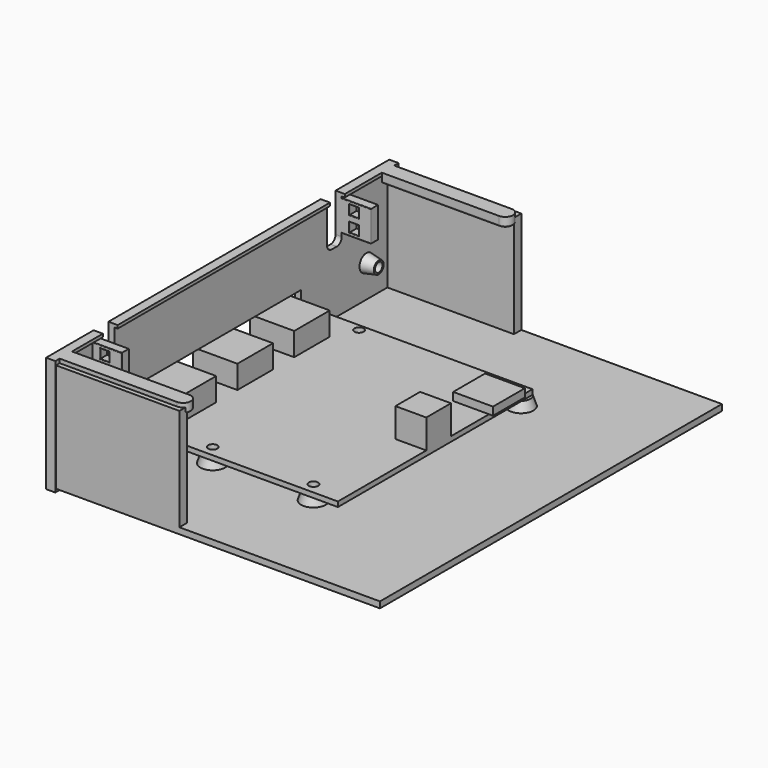
from build123d import *

# Parameters (mm, degrees)
BOX055_W                  = 10
BOX055_H                  = 10
BOX055_DEPTH              = 10
BOX052_W                  = 14.4
BOX052_H                  = 14.4
BOX052_DEPTH              = 7.5
BOX053_W                  = 14.4
BOX053_H                  = 14.4
BOX053_DEPTH              = 7.5
BOX051_W                  = 14.4
BOX051_H                  = 14.4
BOX051_DEPTH              = 7.5
BOX054_W                  = 12.9
BOX054_H                  = 12.9
BOX054_DEPTH              = 2.6
CYLINDER019_R             = 1.5
CYLINDER019_DEPTH         = 10
CYLINDER020_R             = 1.5
CYLINDER020_DEPTH         = 10
CYLINDER018_R             = 1.5
CYLINDER018_DEPTH         = 10
BOX065_W                  = 66.5
BOX065_H                  = 78.8
BOX065_DEPTH              = 1.6
FUSION034_PLACEMENT_ANGLE = 180
BOX061_W                  = 10
BOX061_H                  = 5.45
BOX061_DEPTH              = 5
BOX061_PLACEMENT_ANGLE    = 30
BOX060_W                  = 5.45
BOX060_H                  = 10
BOX060_DEPTH              = 5
BOX060_PLACEMENT_ANGLE    = 120
BOX059_W                  = 5.45
BOX059_H                  = 10
BOX059_DEPTH              = 5
CYLINDER022_R             = 1.55
CYLINDER022_DEPTH         = 10
BOX063_W                  = 10
BOX063_H                  = 5.45
BOX063_DEPTH              = 5
BOX063_PLACEMENT_ANGLE    = 30
BOX064_W                  = 5.45
BOX064_H                  = 10
BOX064_DEPTH              = 5
BOX064_PLACEMENT_ANGLE    = 120
BOX062_W                  = 5.45
BOX062_H                  = 10
BOX062_DEPTH              = 5
CYLINDER023_R             = 1.55
CYLINDER023_DEPTH         = 10
BOX058_W                  = 10
BOX058_H                  = 5.45
BOX058_DEPTH              = 5
BOX058_PLACEMENT_ANGLE    = 30
BOX057_W                  = 5.45
BOX057_H                  = 10
BOX057_DEPTH              = 5
BOX057_PLACEMENT_ANGLE    = 120
BOX056_W                  = 5.45
BOX056_H                  = 10
BOX056_DEPTH              = 5
CYLINDER021_R             = 1.55
CYLINDER021_DEPTH         = 10
FUSION038_PLACEMENT_ANGLE = 180
CYLINDER004_R             = 2.75
CYLINDER004_DEPTH         = 3
FILLET001_R               = 0.5
BOX002_W                  = 100
BOX002_H                  = 5.5
BOX002_DEPTH              = 3
FILLET_R                  = 0.5
CYLINDER005_R             = 2.75
CYLINDER005_DEPTH         = 3
FILLET003_R               = 0.5
BOX003_W                  = 100
BOX003_H                  = 5.5
BOX003_DEPTH              = 3
FILLET002_R               = 0.5
CYLINDER006_R             = 2.75
CYLINDER006_DEPTH         = 3
FILLET005_R               = 0.5
BOX004_W                  = 100
BOX004_H                  = 5.5
BOX004_DEPTH              = 3
FILLET004_R               = 0.5
CYLINDER007_R             = 2.75
CYLINDER007_DEPTH         = 3
FILLET007_R               = 0.5
BOX005_W                  = 100
BOX005_H                  = 5.5
BOX005_DEPTH              = 3
FILLET006_R               = 0.5
FUSION039_PLACEMENT_ANGLE = 180
BOX_W                     = 105
BOX_H                     = 138.5
BOX_DEPTH                 = 2
BOX031_W                  = 10
BOX031_H                  = 65
BOX031_DEPTH              = 10
BOX020_W                  = 10
BOX020_H                  = 6
BOX020_DEPTH              = 15
FILLET014_R               = 2
BOX018_W                  = 10
BOX018_H                  = 6
BOX018_DEPTH              = 15
FILLET012_R               = 2
CYLINDER017_R             = 1.5
CYLINDER017_DEPTH         = 10
CYLINDER016_R             = 1.5
CYLINDER016_DEPTH         = 10
BOX050_W                  = 3
BOX050_H                  = 3
BOX050_DEPTH              = 3
BOX049_W                  = 3
BOX049_H                  = 3
BOX049_DEPTH              = 3
BOX048_W                  = 10
BOX048_H                  = 3
BOX048_DEPTH              = 10
FILLET023_R               = 0.2
BOX047_W                  = 3
BOX047_H                  = 3
BOX047_DEPTH              = 3
BOX046_W                  = 3
BOX046_H                  = 3
BOX046_DEPTH              = 3
BOX045_W                  = 10
BOX045_H                  = 3
BOX045_DEPTH              = 10
FILLET022_R               = 0.2
BOX017_W                  = 4
BOX017_H                  = 132.5
BOX017_DEPTH              = 33.5
BOX001_W                  = 3
BOX001_H                  = 139
BOX001_DEPTH              = 37.5
CYLINDER009_R             = 2.5
CYLINDER009_DEPTH         = 3
FILLET011_R               = 0.5
BOX009_W                  = 38
BOX009_H                  = 5
BOX009_DEPTH              = 3
FILLET010_R               = 0.5
BOX007_W                  = 40
BOX007_H                  = 3
BOX007_DEPTH              = 35.2
BOX006_W                  = 40
BOX006_H                  = 3
BOX006_DEPTH              = 35.2
CYLINDER008_R             = 2.5
CYLINDER008_DEPTH         = 3
FILLET009_R               = 0.5
BOX008_W                  = 38
BOX008_H                  = 5
BOX008_DEPTH              = 3
FILLET008_R               = 0.5


with BuildPart() as cube054:
    # Box055 → Box055 (new body)
    with BuildSketch(Plane(origin=(0, 33, 6), x_dir=(1, 0, 0), z_dir=(0, 0, 1))):
        with Locations((5, 5)):
            Rectangle(BOX055_W, BOX055_H)
    extrude(amount=BOX055_DEPTH)


with BuildPart() as cube051:
    # Box052 → Box052 (new body)
    with BuildSketch(Plane(origin=(58, 32.6, 6.6), x_dir=(1, 0, 0), z_dir=(0, 0, 1))):
        with Locations((7.2, 7.2)):
            Rectangle(BOX052_W, BOX052_H)
    extrude(amount=BOX052_DEPTH)


with BuildPart() as cube052:
    # Box053 → Box053 (new body)
    with BuildSketch(Plane(origin=(58, 55.6, 6.6), x_dir=(1, 0, 0), z_dir=(0, 0, 1))):
        with Locations((7.2, 7.2)):
            Rectangle(BOX053_W, BOX053_H)
    extrude(amount=BOX053_DEPTH)


with BuildPart() as fusion032:
    # Box051 → Box051 (new body)
    with BuildSketch(Plane(origin=(58, 9.6, 6.6), x_dir=(1, 0, 0), z_dir=(0, 0, 1))):
        with Locations((7.2, 7.2)):
            Rectangle(BOX051_W, BOX051_H)
    extrude(amount=BOX051_DEPTH)

    # Fusion032: union Cube051, Cube052
    add(cube051.part)
    add(cube052.part)


with BuildPart() as fusion033:
    # Box054 → Box054 (new body)
    with BuildSketch(Plane(origin=(-1.3, 4.7, 6.6), x_dir=(1, 0, 0), z_dir=(0, 0, 1))):
        with Locations((6.45, 6.45)):
            Rectangle(BOX054_W, BOX054_H)
    extrude(amount=BOX054_DEPTH)

    # Fusion033: union Cube054, Fusion032
    add(cube054.part)
    add(fusion032.part)


with BuildPart() as cylinder019:
    # Cylinder019 → Cylinder019 (new body)
    with BuildSketch(Plane(origin=(43.4, 75.25, 0), x_dir=(1, 0, 0), z_dir=(0, 0, 1))):
        Circle(CYLINDER019_R)
    extrude(amount=CYLINDER019_DEPTH)


with BuildPart() as cylinder020:
    # Cylinder020 → Cylinder020 (new body)
    with BuildSketch(Plane(origin=(54.5, 2.1, 0), x_dir=(1, 0, 0), z_dir=(0, 0, 1))):
        Circle(CYLINDER020_R)
    extrude(amount=CYLINDER020_DEPTH)


with BuildPart() as fusion031:
    # Cylinder018 → Cylinder018 (new body)
    with BuildSketch(Plane(origin=(10.75, 75.25, 0), x_dir=(1, 0, 0), z_dir=(0, 0, 1))):
        Circle(CYLINDER018_R)
    extrude(amount=CYLINDER018_DEPTH)

    # Fusion031: union Cylinder019, Cylinder020
    add(cylinder019.part)
    add(cylinder020.part)


with BuildPart() as obj1:
    # Box065 → Box065 (new body)
    with BuildSketch(Plane.XY):
        with Locations((33.25, 39.4)):
            Rectangle(BOX065_W, BOX065_H)
    extrude(amount=BOX065_DEPTH)

    # Cut014: cut Fusion031
    add(fusion031.part, mode=Mode.SUBTRACT)


with BuildPart() as obj1_1:
    # Cut014 placement: moved
    add(obj1.part.moved(Location((0, 0, 5))))

    # Fusion034: union Fusion033
    add(fusion033.part)


with BuildPart() as obj1_2:
    # Fusion034 placement: moved
    add(obj1_1.part.moved(Location((68, 88, 0))).rotate(Axis((68, 88, 0), (0, 0, 1)), FUSION034_PLACEMENT_ANGLE))


with BuildPart() as cube060:
    # Box061 → Box061 (new body)
    with BuildSketch(Plane.XY):
        with Locations((5, 2.725)):
            Rectangle(BOX061_W, BOX061_H)
    extrude(amount=BOX061_DEPTH)


with BuildPart() as cube060_1:
    # Box061 placement: moved
    add(cube060.part.moved(Location((0.55, 4, 0))).rotate(Axis((0.55, 4, 0), (0, 0, -1)), BOX061_PLACEMENT_ANGLE))


with BuildPart() as cube059:
    # Box060 → Box060 (new body)
    with BuildSketch(Plane.XY):
        with Locations((2.725, 5)):
            Rectangle(BOX060_W, BOX060_H)
    extrude(amount=BOX060_DEPTH)


with BuildPart() as cube059_1:
    # Box060 placement: moved
    add(cube059.part.moved(Location((11.5, 4, 0))).rotate(Axis((11.5, 4, 0), (0, 0, 1)), BOX060_PLACEMENT_ANGLE))


with BuildPart() as m_25_nut005:
    # Box059 → Box059 (new body)
    with BuildSketch(Plane(origin=(3.25, 0, 0), x_dir=(1, 0, 0), z_dir=(0, 0, 1))):
        with Locations((2.725, 5)):
            Rectangle(BOX059_W, BOX059_H)
    extrude(amount=BOX059_DEPTH)

    # Common005: intersect Cube060, Cube059
    add(cube060_1.part, mode=Mode.INTERSECT)
    add(cube059_1.part, mode=Mode.INTERSECT)


with BuildPart() as m_25_nut005_1:
    # Common005 placement: moved
    add(m_25_nut005.part.moved(Location((-2, 0, -1))))


with BuildPart() as screw_hole005:
    # Cylinder022 → Cylinder022 (new body)
    with BuildSketch(Plane(origin=(4, 4, -1), x_dir=(1, 0, 0), z_dir=(0, 0, 1))):
        Circle(CYLINDER022_R)
    extrude(amount=CYLINDER022_DEPTH)

    # Fusion036: union M.25 nut005
    add(m_25_nut005_1.part)


with BuildPart() as screw_hole005_1:
    # Fusion036 placement: moved
    add(screw_hole005.part.moved(Location((-61.25, -15.75, 0))))


with BuildPart() as cube062:
    # Box063 → Box063 (new body)
    with BuildSketch(Plane.XY):
        with Locations((5, 2.725)):
            Rectangle(BOX063_W, BOX063_H)
    extrude(amount=BOX063_DEPTH)


with BuildPart() as cube062_1:
    # Box063 placement: moved
    add(cube062.part.moved(Location((0.55, 4, 0))).rotate(Axis((0.55, 4, 0), (0, 0, -1)), BOX063_PLACEMENT_ANGLE))


with BuildPart() as cube063:
    # Box064 → Box064 (new body)
    with BuildSketch(Plane.XY):
        with Locations((2.725, 5)):
            Rectangle(BOX064_W, BOX064_H)
    extrude(amount=BOX064_DEPTH)


with BuildPart() as cube063_1:
    # Box064 placement: moved
    add(cube063.part.moved(Location((11.5, 4, 0))).rotate(Axis((11.5, 4, 0), (0, 0, 1)), BOX064_PLACEMENT_ANGLE))


with BuildPart() as m_25_nut006:
    # Box062 → Box062 (new body)
    with BuildSketch(Plane(origin=(3.25, 0, 0), x_dir=(1, 0, 0), z_dir=(0, 0, 1))):
        with Locations((2.725, 5)):
            Rectangle(BOX062_W, BOX062_H)
    extrude(amount=BOX062_DEPTH)

    # Common006: intersect Cube062, Cube063
    add(cube062_1.part, mode=Mode.INTERSECT)
    add(cube063_1.part, mode=Mode.INTERSECT)


with BuildPart() as m_25_nut006_1:
    # Common006 placement: moved
    add(m_25_nut006.part.moved(Location((-2, 0, -1))))


with BuildPart() as screw_hole006:
    # Cylinder023 → Cylinder023 (new body)
    with BuildSketch(Plane(origin=(4, 4, -1), x_dir=(1, 0, 0), z_dir=(0, 0, 1))):
        Circle(CYLINDER023_R)
    extrude(amount=CYLINDER023_DEPTH)

    # Fusion037: union M.25 nut006
    add(m_25_nut006_1.part)


with BuildPart() as screw_hole006_1:
    # Fusion037 placement: moved
    add(screw_hole006.part.moved(Location((-17.5, -88.9, 0))))


with BuildPart() as cube057:
    # Box058 → Box058 (new body)
    with BuildSketch(Plane.XY):
        with Locations((5, 2.725)):
            Rectangle(BOX058_W, BOX058_H)
    extrude(amount=BOX058_DEPTH)


with BuildPart() as cube057_1:
    # Box058 placement: moved
    add(cube057.part.moved(Location((0.55, 4, 0))).rotate(Axis((0.55, 4, 0), (0, 0, -1)), BOX058_PLACEMENT_ANGLE))


with BuildPart() as cube056:
    # Box057 → Box057 (new body)
    with BuildSketch(Plane.XY):
        with Locations((2.725, 5)):
            Rectangle(BOX057_W, BOX057_H)
    extrude(amount=BOX057_DEPTH)


with BuildPart() as cube056_1:
    # Box057 placement: moved
    add(cube056.part.moved(Location((11.5, 4, 0))).rotate(Axis((11.5, 4, 0), (0, 0, 1)), BOX057_PLACEMENT_ANGLE))


with BuildPart() as m_25_nut004:
    # Box056 → Box056 (new body)
    with BuildSketch(Plane(origin=(3.25, 0, 0), x_dir=(1, 0, 0), z_dir=(0, 0, 1))):
        with Locations((2.725, 5)):
            Rectangle(BOX056_W, BOX056_H)
    extrude(amount=BOX056_DEPTH)

    # Common004: intersect Cube057, Cube056
    add(cube057_1.part, mode=Mode.INTERSECT)
    add(cube056_1.part, mode=Mode.INTERSECT)


with BuildPart() as m_25_nut004_1:
    # Common004 placement: moved
    add(m_25_nut004.part.moved(Location((-2, 0, -1))))


with BuildPart() as screws_holes:
    # Cylinder021 → Cylinder021 (new body)
    with BuildSketch(Plane(origin=(4, 4, -1), x_dir=(1, 0, 0), z_dir=(0, 0, 1))):
        Circle(CYLINDER021_R)
    extrude(amount=CYLINDER021_DEPTH)

    # Fusion035: union M.25 nut004
    add(m_25_nut004_1.part)


with BuildPart() as screws_holes_1:
    # Fusion035 placement: moved
    add(screws_holes.part.moved(Location((-28.6, -15.75, 0))))

    # Fusion038: union screw_hole005, screw_hole006
    add(screw_hole005_1.part)
    add(screw_hole006_1.part)


with BuildPart() as screws_holes_2:
    # Fusion038 placement: moved
    add(screws_holes_1.part.moved(Location((0, 1, -1.5))).rotate(Axis((0, 1, -1.5), (0, 0, 1)), FUSION038_PLACEMENT_ANGLE))


with BuildPart() as fillet001:
    # Cylinder004 → Cylinder004 (new body)
    with BuildSketch(Plane(origin=(100, 2.75, -2), x_dir=(1, 0, 0), z_dir=(0, 0, 1))):
        Circle(CYLINDER004_R)
    extrude(amount=CYLINDER004_DEPTH)

    # Fillet001
    fillet001_edges = [fillet001.edges().sort_by_distance(p)[0] for p in [
        (97.25, 2.75, -2),
    ]]
    fillet(fillet001_edges, radius=FILLET001_R)


with BuildPart() as fusion001:
    # Box002 → Box002 (new body)
    with BuildSketch(Plane.XY.offset(-2)):
        with Locations((50, 2.75)):
            Rectangle(BOX002_W, BOX002_H)
    extrude(amount=BOX002_DEPTH)

    # Fillet
    fillet_edges = [fusion001.edges().sort_by_distance(p)[0] for p in [
        (50, 0, -2),
        (50, 5.5, -2),
    ]]
    fillet(fillet_edges, radius=FILLET_R)

    # Fusion001: union Fillet001
    add(fillet001.part)


with BuildPart() as fusion001_1:
    # Fusion001 placement: moved
    add(fusion001.part.moved(Location((0, -3.25, 1))))


with BuildPart() as fillet003:
    # Cylinder005 → Cylinder005 (new body)
    with BuildSketch(Plane(origin=(100, 2.75, -2), x_dir=(1, 0, 0), z_dir=(0, 0, 1))):
        Circle(CYLINDER005_R)
    extrude(amount=CYLINDER005_DEPTH)

    # Fillet003
    fillet003_edges = [fillet003.edges().sort_by_distance(p)[0] for p in [
        (97.25, 2.75, -2),
    ]]
    fillet(fillet003_edges, radius=FILLET003_R)


with BuildPart() as fusion002:
    # Box003 → Box003 (new body)
    with BuildSketch(Plane.XY.offset(-2)):
        with Locations((50, 2.75)):
            Rectangle(BOX003_W, BOX003_H)
    extrude(amount=BOX003_DEPTH)

    # Fillet002
    fillet002_edges = [fusion002.edges().sort_by_distance(p)[0] for p in [
        (50, 0, -2),
        (50, 5.5, -2),
    ]]
    fillet(fillet002_edges, radius=FILLET002_R)

    # Fusion002: union Fillet003
    add(fillet003.part)


with BuildPart() as fusion002_1:
    # Fusion002 placement: moved
    add(fusion002.part.moved(Location((0, 94.5, 1))))


with BuildPart() as fillet005:
    # Cylinder006 → Cylinder006 (new body)
    with BuildSketch(Plane(origin=(100, 2.75, -2), x_dir=(1, 0, 0), z_dir=(0, 0, 1))):
        Circle(CYLINDER006_R)
    extrude(amount=CYLINDER006_DEPTH)

    # Fillet005
    fillet005_edges = [fillet005.edges().sort_by_distance(p)[0] for p in [
        (97.25, 2.75, -2),
    ]]
    fillet(fillet005_edges, radius=FILLET005_R)


with BuildPart() as fusion003:
    # Box004 → Box004 (new body)
    with BuildSketch(Plane.XY.offset(-2)):
        with Locations((50, 2.75)):
            Rectangle(BOX004_W, BOX004_H)
    extrude(amount=BOX004_DEPTH)

    # Fillet004
    fillet004_edges = [fusion003.edges().sort_by_distance(p)[0] for p in [
        (50, 0, -2),
        (50, 5.5, -2),
    ]]
    fillet(fillet004_edges, radius=FILLET004_R)

    # Fusion003: union Fillet005
    add(fillet005.part)


with BuildPart() as fusion003_1:
    # Fusion003 placement: moved
    add(fusion003.part.moved(Location((0, 66.5, 1))))


with BuildPart() as fillet007:
    # Cylinder007 → Cylinder007 (new body)
    with BuildSketch(Plane(origin=(100, 2.75, -2), x_dir=(1, 0, 0), z_dir=(0, 0, 1))):
        Circle(CYLINDER007_R)
    extrude(amount=CYLINDER007_DEPTH)

    # Fillet007
    fillet007_edges = [fillet007.edges().sort_by_distance(p)[0] for p in [
        (97.25, 2.75, -2),
    ]]
    fillet(fillet007_edges, radius=FILLET007_R)


with BuildPart() as fusion004:
    # Box005 → Box005 (new body)
    with BuildSketch(Plane.XY.offset(-2)):
        with Locations((50, 2.75)):
            Rectangle(BOX005_W, BOX005_H)
    extrude(amount=BOX005_DEPTH)

    # Fillet006
    fillet006_edges = [fusion004.edges().sort_by_distance(p)[0] for p in [
        (50, 0, -2),
        (50, 5.5, -2),
    ]]
    fillet(fillet006_edges, radius=FILLET006_R)

    # Fusion004: union Fillet007
    add(fillet007.part)


with BuildPart() as fusion004_1:
    # Fusion004 placement: moved
    add(fusion004.part.moved(Location((0, 24.5, 1))))


with BuildPart() as screws_cones001:
    # Cone009 → Cone009 (revolve)
    with BuildSketch(Plane(origin=(-57.24, -11.75, 2), x_dir=(1, 0, 0), z_dir=(0, -1, 0))):
        Polygon((0, 0), (4, 0), (3, 3), (0, 3), align=None)
    revolve(axis=Axis((-57.24, -11.75, 2), (0, 0, 1)))


with BuildPart() as screws_cones002:
    # Cone010 → Cone010 (revolve)
    with BuildSketch(Plane(origin=(-13.5, -84.9, 2), x_dir=(1, 0, 0), z_dir=(0, -1, 0))):
        Polygon((0, 0), (4, 0), (3, 3), (0, 3), align=None)
    revolve(axis=Axis((-13.5, -84.9, 2), (0, 0, 1)))


with BuildPart() as screws_cones004:
    # Cone011 → Cone011 (revolve)
    with BuildSketch(Plane(origin=(-66, -84.9, 2), x_dir=(1, 0, 0), z_dir=(0, -1, 0))):
        Polygon((0, 0), (4, 0), (3, 3), (0, 3), align=None)
    revolve(axis=Axis((-66, -84.9, 2), (0, 0, 1)))


with BuildPart() as screws_cones003:
    # Cone008 → Cone008 (revolve)
    with BuildSketch(Plane(origin=(-24.6, -11.75, 2), x_dir=(1, 0, 0), z_dir=(0, -1, 0))):
        Polygon((0, 0), (4, 0), (3, 3), (0, 3), align=None)
    revolve(axis=Axis((-24.6, -11.75, 2), (0, 0, 1)))

    # Fusion039: union screws cones001, screws cones002, screws cones004
    add(screws_cones001.part)
    add(screws_cones002.part)
    add(screws_cones004.part)


with BuildPart() as screws_cones003_1:
    # Fusion039 placement: moved
    add(screws_cones003.part.moved(Location((0, 1, 0))).rotate(Axis((0, 1, 0), (0, 0, 1)), FUSION039_PLACEMENT_ANGLE))


with BuildPart() as bottom:
    # Box → Box (new body)
    with BuildSketch(Plane(origin=(0, -20, 0), x_dir=(1, 0, 0), z_dir=(0, 0, 1))):
        with Locations((52.5, 69.25)):
            Rectangle(BOX_W, BOX_H)
    extrude(amount=BOX_DEPTH)

    # Fusion007: union Fusion001, Fusion002, Fusion003, Fusion004, screws cones003
    add(fusion001_1.part)
    add(fusion002_1.part)
    add(fusion003_1.part)
    add(fusion004_1.part)
    add(screws_cones003_1.part)

    # Cut015: cut screws holes
    add(screws_holes_2.part, mode=Mode.SUBTRACT)


with BuildPart() as cube031:
    # Box031 → Box031 (new body)
    with BuildSketch(Plane(origin=(-5, 16.5, 5.5), x_dir=(1, 0, 0), z_dir=(0, 0, 1))):
        with Locations((5, 32.5)):
            Rectangle(BOX031_W, BOX031_H)
    extrude(amount=BOX031_DEPTH)


with BuildPart() as fillet014:
    # Box020 → Box020 (new body)
    with BuildSketch(Plane.XY.offset(16)):
        with Locations((5, 3)):
            Rectangle(BOX020_W, BOX020_H)
    extrude(amount=BOX020_DEPTH)

    # Fillet014
    fillet014_edges = [fillet014.edges().sort_by_distance(p)[0] for p in [
        (5, 0, 16),
        (5, 6, 16),
    ]]
    fillet(fillet014_edges, radius=FILLET014_R)


with BuildPart() as fillet014_1:
    # Fillet014 placement: moved
    add(fillet014.part.moved(Location((0, 92, 4))))


with BuildPart() as fusion:
    # Box018 → Box018 (new body)
    with BuildSketch(Plane.XY.offset(16)):
        with Locations((5, 3)):
            Rectangle(BOX018_W, BOX018_H)
    extrude(amount=BOX018_DEPTH)

    # Fillet012
    fillet012_edges = [fusion.edges().sort_by_distance(p)[0] for p in [
        (5, 0, 16),
        (5, 6, 16),
    ]]
    fillet(fillet012_edges, radius=FILLET012_R)


with BuildPart() as fusion_1:
    # Fillet012 placement: moved
    add(fusion.part.moved(Location((0, 0, 4))))

    # Fusion: union Fillet014
    add(fillet014_1.part)


with BuildPart() as fusion_2:
    # Fusion placement: moved
    add(fusion_1.part.moved(Location((-5, 0, 2))))


with BuildPart() as cylinder017:
    # Cylinder017 → Cylinder017 (new body)
    with BuildSketch(Plane(origin=(-5, 108, 32.5), x_dir=(0, 0, -1), z_dir=(1, 0, 0))):
        Circle(CYLINDER017_R)
    extrude(amount=CYLINDER017_DEPTH)


with BuildPart() as fusion029:
    # Cylinder016 → Cylinder016 (new body)
    with BuildSketch(Plane(origin=(-5, -10, 32.5), x_dir=(0, 0, -1), z_dir=(1, 0, 0))):
        Circle(CYLINDER016_R)
    extrude(amount=CYLINDER016_DEPTH)

    # Fusion023: union Cylinder017
    add(cylinder017.part)


with BuildPart() as fusion029_1:
    # Fusion023 placement: moved
    add(fusion029.part.moved(Location((0, 0, -20))))

    # Fusion029: union Fusion
    add(fusion_2.part)


with BuildPart() as cube049:
    # Box050 → Box050 (new body)
    with BuildSketch(Plane(origin=(3, 10, 32), x_dir=(1, 0, 0), z_dir=(0, 0, 1))):
        with Locations((1.5, 1.5)):
            Rectangle(BOX050_W, BOX050_H)
    extrude(amount=BOX050_DEPTH)


with BuildPart() as fusion026:
    # Box049 → Box049 (new body)
    with BuildSketch(Plane(origin=(3, 10, 27), x_dir=(1, 0, 0), z_dir=(0, 0, 1))):
        with Locations((1.5, 1.5)):
            Rectangle(BOX049_W, BOX049_H)
    extrude(amount=BOX049_DEPTH)

    # Fusion026: union Cube049
    add(cube049.part)


with BuildPart() as zip_ties_holder001:
    # Box048 → Box048 (new body)
    with BuildSketch(Plane(origin=(0, 10, 26), x_dir=(1, 0, 0), z_dir=(0, 0, 1))):
        with Locations((5, 1.5)):
            Rectangle(BOX048_W, BOX048_H)
    extrude(amount=BOX048_DEPTH)

    # Cut011: cut Fusion026
    add(fusion026.part, mode=Mode.SUBTRACT)

    # Fillet023
    fillet023_edges = [zip_ties_holder001.edges().sort_by_distance(p)[0] for p in [
        (5, 10, 26),
        (10, 10, 31),
        (5, 10, 36),
        (4.5, 10, 30),
        (6, 10, 28.5),
        (4.5, 10, 27),
        (3, 10, 28.5),
        (4.5, 10, 35),
        (6, 10, 33.5),
        (4.5, 10, 32),
        (3, 10, 33.5),
        (5, 13, 36),
        (10, 13, 31),
        (4.5, 13, 30),
        (6, 13, 28.5),
        (4.5, 13, 27),
        (3, 13, 28.5),
        (4.5, 13, 35),
        (6, 13, 33.5),
        (4.5, 13, 32),
        (3, 13, 33.5),
        (10, 11.5, 26),
    ]]
    fillet(fillet023_edges, radius=FILLET023_R)


with BuildPart() as zip_ties_holder001_1:
    # Fillet023 placement: moved
    add(zip_ties_holder001.part.moved(Location((-1, 88, -1))))


with BuildPart() as cube046:
    # Box047 → Box047 (new body)
    with BuildSketch(Plane(origin=(3, 10, 32), x_dir=(1, 0, 0), z_dir=(0, 0, 1))):
        with Locations((1.5, 1.5)):
            Rectangle(BOX047_W, BOX047_H)
    extrude(amount=BOX047_DEPTH)


with BuildPart() as fusion025:
    # Box046 → Box046 (new body)
    with BuildSketch(Plane(origin=(3, 10, 27), x_dir=(1, 0, 0), z_dir=(0, 0, 1))):
        with Locations((1.5, 1.5)):
            Rectangle(BOX046_W, BOX046_H)
    extrude(amount=BOX046_DEPTH)

    # Fusion025: union Cube046
    add(cube046.part)


with BuildPart() as zip_ties_holders:
    # Box045 → Box045 (new body)
    with BuildSketch(Plane(origin=(0, 10, 26), x_dir=(1, 0, 0), z_dir=(0, 0, 1))):
        with Locations((5, 1.5)):
            Rectangle(BOX045_W, BOX045_H)
    extrude(amount=BOX045_DEPTH)

    # Cut010: cut Fusion025
    add(fusion025.part, mode=Mode.SUBTRACT)

    # Fillet022
    fillet022_edges = [zip_ties_holders.edges().sort_by_distance(p)[0] for p in [
        (5, 10, 26),
        (10, 10, 31),
        (5, 10, 36),
        (4.5, 10, 30),
        (6, 10, 28.5),
        (4.5, 10, 27),
        (3, 10, 28.5),
        (4.5, 10, 35),
        (6, 10, 33.5),
        (4.5, 10, 32),
        (3, 10, 33.5),
        (5, 13, 36),
        (10, 13, 31),
        (4.5, 13, 30),
        (6, 13, 28.5),
        (4.5, 13, 27),
        (3, 13, 28.5),
        (4.5, 13, 35),
        (6, 13, 33.5),
        (4.5, 13, 32),
        (3, 13, 33.5),
        (10, 11.5, 26),
    ]]
    fillet(fillet022_edges, radius=FILLET022_R)


with BuildPart() as zip_ties_holders_1:
    # Fillet022 placement: moved
    add(zip_ties_holders.part.moved(Location((-1, -13, -1))))

    # Fusion027: union zip ties holder001
    add(zip_ties_holder001_1.part)


with BuildPart() as zip_ties_holders_2:
    # Fusion027 placement: moved
    add(zip_ties_holders_1.part.moved(Location((-0.5, 0, 0))))


with BuildPart() as cube017:
    # Box017 → Box017 (new body)
    with BuildSketch(Plane(origin=(-3, -16, 2), x_dir=(1, 0, 0), z_dir=(0, 0, 1))):
        with Locations((2, 66.25)):
            Rectangle(BOX017_W, BOX017_H)
    extrude(amount=BOX017_DEPTH)


with BuildPart() as face_plate_full:
    # Box001 → Box001 (new body)
    with BuildSketch(Plane(origin=(-5, -19.25, -1), x_dir=(1, 0, 0), z_dir=(0, 0, 1))):
        with Locations((1.5, 69.5)):
            Rectangle(BOX001_W, BOX001_H)
    extrude(amount=BOX001_DEPTH)

    # Cut: cut Cube017
    add(cube017.part, mode=Mode.SUBTRACT)


with BuildPart() as face_plate_full_1:
    # Cut placement: moved
    add(face_plate_full.part.moved(Location((2, 0, 0))))


with BuildPart() as cone007:
    # Cone007 → Cone007 (revolve)
    with BuildSketch(Plane(origin=(-1, 108, 32.5), x_dir=(0, 0, -1), z_dir=(0, -1, 0))):
        Polygon((0, 0), (3, 0), (2, 5), (0, 5), align=None)
    revolve(axis=Axis((-1, 108, 32.5), (1, 0, 0)))


with BuildPart() as face_plate:
    # Cone006 → Cone006 (revolve)
    with BuildSketch(Plane(origin=(-1, -10, 32.5), x_dir=(0, 0, -1), z_dir=(0, -1, 0))):
        Polygon((0, 0), (3, 0), (2, 5), (0, 5), align=None)
    revolve(axis=Axis((-1, -10, 32.5), (1, 0, 0)))

    # Fusion022: union Cone007
    add(cone007.part)


with BuildPart() as face_plate_1:
    # Fusion022 placement: moved
    add(face_plate.part.moved(Location((-1, 0, -20))))

    # Fusion028: union zip ties holders, Face_plate_full
    add(zip_ties_holders_2.part)
    add(face_plate_full_1.part)

    # Cut012: cut Fusion029
    add(fusion029_1.part, mode=Mode.SUBTRACT)

    # Cut013: cut Cube031
    add(cube031.part, mode=Mode.SUBTRACT)


with BuildPart() as face_plate_2:
    # Cut013 placement: moved
    add(face_plate_1.part.moved(Location((0, -1, 0))))


with BuildPart() as fillet011:
    # Cylinder009 → Cylinder009 (new body)
    with BuildSketch(Plane(origin=(38, 2.5, -2), x_dir=(1, 0, 0), z_dir=(0, 0, 1))):
        Circle(CYLINDER009_R)
    extrude(amount=CYLINDER009_DEPTH)

    # Fillet011
    fillet011_edges = [fillet011.edges().sort_by_distance(p)[0] for p in [
        (35.5, 2.5, -2),
    ]]
    fillet(fillet011_edges, radius=FILLET011_R)


with BuildPart() as fusion006:
    # Box009 → Box009 (new body)
    with BuildSketch(Plane.XY.offset(-2)):
        with Locations((19, 2.5)):
            Rectangle(BOX009_W, BOX009_H)
    extrude(amount=BOX009_DEPTH)

    # Fillet010
    fillet010_edges = [fusion006.edges().sort_by_distance(p)[0] for p in [
        (19, 0, -2),
        (19, 5, -2),
    ]]
    fillet(fillet010_edges, radius=FILLET010_R)

    # Fusion006: union Fillet011
    add(fillet011.part)


with BuildPart() as fusion006_1:
    # Fusion006 placement: moved
    add(fusion006.part.moved(Location((0, 112, 35.5))))


with BuildPart() as cube007:
    # Box007 → Box007 (new body)
    with BuildSketch(Plane(origin=(0, 115.5, 0), x_dir=(1, 0, 0), z_dir=(0, 0, 1))):
        with Locations((20, 1.5)):
            Rectangle(BOX007_W, BOX007_H)
    extrude(amount=BOX007_DEPTH)


with BuildPart() as cube006:
    # Box006 → Box006 (new body)
    with BuildSketch(Plane(origin=(0, -20, 0), x_dir=(1, 0, 0), z_dir=(0, 0, 1))):
        with Locations((20, 1.5)):
            Rectangle(BOX006_W, BOX006_H)
    extrude(amount=BOX006_DEPTH)


with BuildPart() as fillet009:
    # Cylinder008 → Cylinder008 (new body)
    with BuildSketch(Plane(origin=(38, 2.5, -2), x_dir=(1, 0, 0), z_dir=(0, 0, 1))):
        Circle(CYLINDER008_R)
    extrude(amount=CYLINDER008_DEPTH)

    # Fillet009
    fillet009_edges = [fillet009.edges().sort_by_distance(p)[0] for p in [
        (35.5, 2.5, -2),
    ]]
    fillet(fillet009_edges, radius=FILLET009_R)


with BuildPart() as obj2:
    # Box008 → Box008 (new body)
    with BuildSketch(Plane.XY.offset(-2)):
        with Locations((19, 2.5)):
            Rectangle(BOX008_W, BOX008_H)
    extrude(amount=BOX008_DEPTH)

    # Fillet008
    fillet008_edges = [obj2.edges().sort_by_distance(p)[0] for p in [
        (19, 0, -2),
        (19, 5, -2),
    ]]
    fillet(fillet008_edges, radius=FILLET008_R)

    # Fusion005: union Fillet009
    add(fillet009.part)


with BuildPart() as obj2_1:
    # Fusion005 placement: moved
    add(obj2.part.moved(Location((0, -18.5, 35.5))))

    # Fusion013: union Fusion006, Cube007, Cube006
    add(fusion006_1.part)
    add(cube007.part)
    add(cube006.part)

    # Fusion030: union face plate
    add(face_plate_2.part)

    # Fusion040: union bottom
    add(bottom.part)


solid = Compound([obj1_2.part, obj2_1.part])
